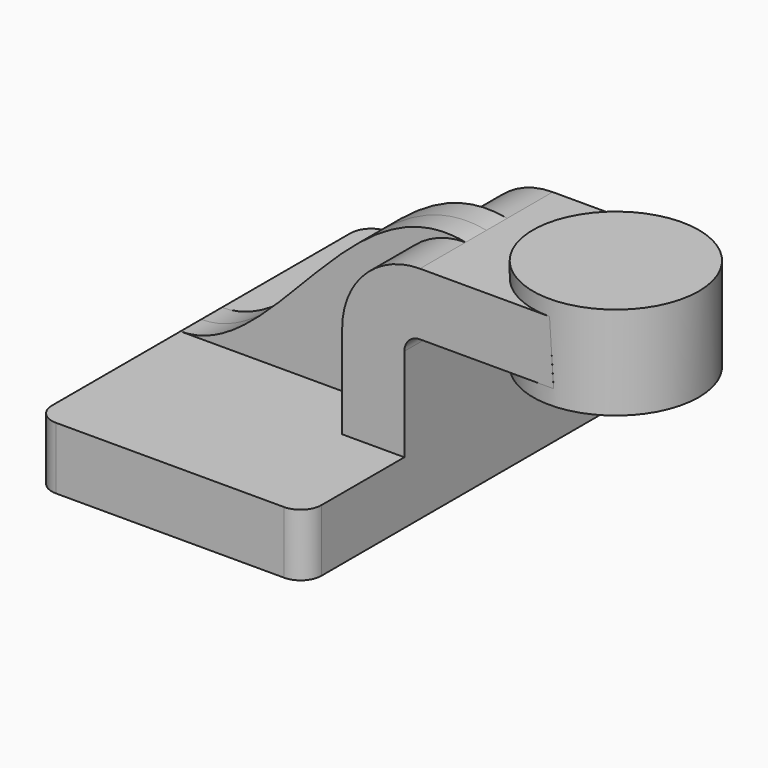
from build123d import *

# Parameters (mm, degrees)
F1_DEPTH = 63.5
F2_DEPTH = 25.4
F3_DEPTH = 7.9375
F5_R     = 6.35


with BuildPart() as f1:
    # F0 (on Front) → F1 (new body, symmetric)
    with BuildSketch(Plane.XZ):
        Polygon((41.275, -9.525), (41.275, 9.525), (22.225, 9.525), (-41.275, 9.525), (-41.275, -9.525), align=None)
    extrude(amount=F1_DEPTH, both=True)

    # F0 (on Front) → F2 (join, symmetric)
    with BuildSketch(Plane.XZ):
        with BuildLine():
            Line((22.225, 9.525), (41.275, 9.525))
            Line((41.275, 9.525), (41.275, 38.1))
            ThreePointArc((41.275, 38.1), (42.673624, 41.476576), (46.0502, 42.8752))
            Line((46.0502, 42.8752), (60.325, 42.8752))
            Line((60.325, 42.8752), (60.325, 61.9252))
            Line((60.325, 61.9252), (46.0502, 61.9252))
            ThreePointArc((46.0502, 61.9252), (29.20324, 54.94696), (22.225, 38.1))
            Line((22.225, 38.1), (22.225, 9.525))
        make_face()
        Polygon((60.325, 61.9252), (60.325, 42.8752), (76.285926, 42.8752), (86.96812, 42.8752), (85.725, 61.9252), align=None)
    extrude(amount=F2_DEPTH, both=True)

    # F0 (on Front) → F3 (join, symmetric)
    with BuildSketch(Plane.XZ):
        with BuildLine():
            Line((-41.275, 9.525), (22.225, 9.525))
            Line((22.225, 9.525), (22.225, 38.1))
            ThreePointArc((22.225, 38.1), (29.20324, 54.94696), (46.0502, 61.9252))
            add(Edge.make_bspline(
                [(-41.275, 9.525), (-12.033702, 9.525), (10.122908, 69.295764), (46.0502, 61.9252)],
                knots=[0, 0, 0, 0, 101.840422, 101.840422, 101.840422, 101.840422], degree=3))
        make_face()
    extrude(amount=F3_DEPTH, both=True)

    # F0 (on Front) → F4 (revolve)
    with BuildSketch(Plane.XZ):
        Polygon((85.725, 66.675), (85.725, 61.9252), (86.96812, 42.8752), (86.96812, 38.1), (111.125, 38.1), (111.125, 66.675), align=None)
    revolve(axis=Axis((85.725, 0, 64.3001), (0, 0, 1)))

    # F5
    f5_edges = [f1.edges().sort_by_distance(p)[0] for p in [
        (-41.275, -63.5, 0),
        (41.275, -63.5, 0),
        (41.275, 63.5, 0),
        (-41.275, 63.5, 0),
    ]]
    fillet(f5_edges, radius=F5_R)


solid = f1.part
